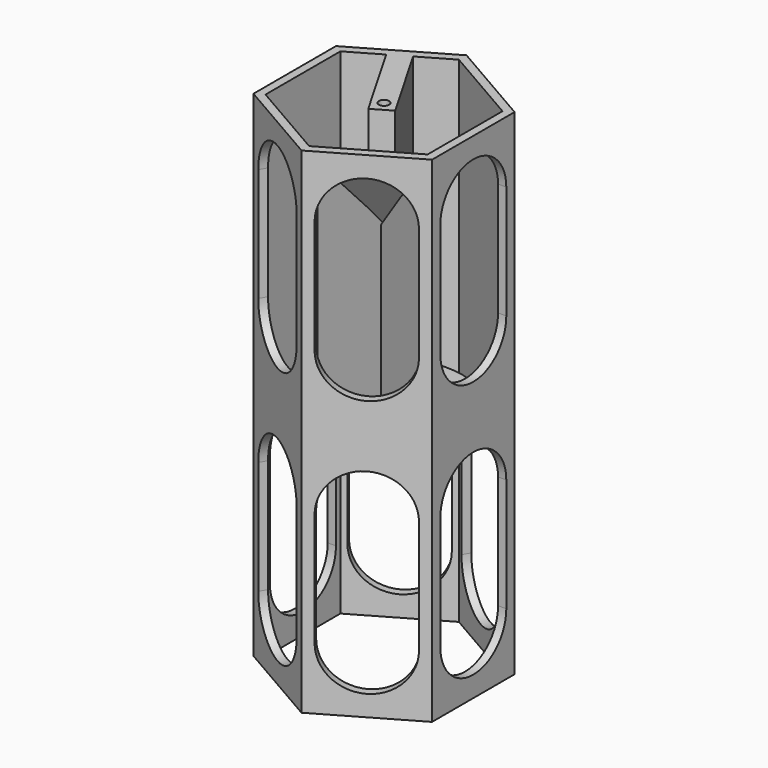
from build123d import *

# Parameters (mm, degrees)
F1_DEPTH  = 304.8
F7_DEPTH  = 3.175
F8_W      = 13.1115056574
F8_H      = 52.3799322128
F9_DEPTH  = 57.15
F10_R     = 3.175
F11_DEPTH = 304.801
F13_START = -25.4
F12_R     = 2.2405859804
F13_DEPTH = 140.85123
F15_DEPTH = 5.08
F17_DEPTH = 5.08
F19_DEPTH = 5.08
F21_DEPTH = 3.175
F23_DEPTH = 6.35
F25_DEPTH = 6.35
F27_DEPTH = 5.08
F29_DEPTH = 5.08
F31_DEPTH = 5.08


with BuildPart() as f1:
    # F0 (on Top) → F1 (new body)
    with BuildSketch(Plane.XY):
        Polygon((-54.9926131403, 31.75), (-54.9926131403, 0), (-54.9926131403, -31.75), (0, -63.5), (54.9926131403, -31.75), (54.9926131403, 0), (54.9926131403, 31.75), (0, 63.5), align=None)
        Polygon((-49.9126131403, -28.8170606325), (-49.9126131403, 0), (-49.9126131403, 28.8170606325), (0, 57.634121265), (49.9126131403, 28.8170606325), (49.9126131403, 0), (49.9126131403, -28.8170606325), (0, -57.634121265), align=None, mode=Mode.SUBTRACT)
    extrude(amount=F1_DEPTH)

    # F8 (on face) → F9 (join)
    with BuildSketch(Plane(origin=(-24.9563065702, 43.2255909488, 0), x_dir=(0.8660254038, 0.5, 0), z_dir=(0.5, -0.8660254038, 0))):
        with Locations((0, 278.6100338936)):
            Rectangle(F8_W, F8_H)
    extrude(amount=F9_DEPTH)

    # F10 (on face) → F11 (cut, through all)
    with BuildSketch(Plane.XY.offset(304.8)):
        Circle(F10_R)
    extrude(amount=-F11_DEPTH, mode=Mode.SUBTRACT)

    # F14 (on face) → F15 (cut, through all)
    with BuildSketch(Plane.YZ.offset(54.9926131403)):
        with BuildLine():
            ThreePointArc((25.4, 266.7), (0, 292.1), (-25.4, 266.7))
            Line((-25.4, 266.7), (-25.4, 196.85))
            ThreePointArc((-25.4, 196.85), (0, 171.45), (25.4, 196.85))
            Line((25.4, 196.85), (25.4, 266.7))
        make_face()
        with BuildLine():
            ThreePointArc((25.4, 107.95), (0, 133.35), (-25.4, 107.95))
            Line((-25.4, 107.95), (-25.4, 38.1))
            ThreePointArc((-25.4, 38.1), (0, 12.7), (25.4, 38.1))
            Line((25.4, 38.1), (25.4, 107.95))
        make_face()
    extrude(amount=-F15_DEPTH, mode=Mode.SUBTRACT)

    # F16 (on face) → F17 (cut, through all)
    with BuildSketch(Plane(origin=(27.4963065702, -47.625, 0), x_dir=(0.8660254038, 0.5, 0), z_dir=(0.5, -0.8660254038, 0))):
        with BuildLine():
            ThreePointArc((25.4, 266.7), (0, 292.1), (-25.4, 266.7))
            Line((-25.4, 266.7), (-25.4, 196.85))
            ThreePointArc((-25.4, 196.85), (0, 171.45), (25.4, 196.85))
            Line((25.4, 196.85), (25.4, 266.7))
        make_face()
        with BuildLine():
            Line((25.4, 38.1), (25.4, 107.95))
            ThreePointArc((25.4, 107.95), (0, 133.35), (-25.4, 107.95))
            Line((-25.4, 107.95), (-25.4, 38.1))
            ThreePointArc((-25.4, 38.1), (0, 12.7), (25.4, 38.1))
        make_face()
    extrude(amount=-F17_DEPTH, mode=Mode.SUBTRACT)

    # F18 (on face) → F19 (cut, through all)
    with BuildSketch(Plane(origin=(-27.4963065702, -47.625, 0), x_dir=(0.8660254038, -0.5, 0), z_dir=(-0.5, -0.8660254038, 0))):
        with BuildLine():
            ThreePointArc((25.4, 266.7), (0, 292.1), (-25.4, 266.7))
            Line((-25.4, 266.7), (-25.4, 196.85))
            ThreePointArc((-25.4, 196.85), (0, 171.45), (25.4, 196.85))
            Line((25.4, 196.85), (25.4, 266.7))
        make_face()
        with BuildLine():
            ThreePointArc((25.4, 107.95), (0, 133.35), (-25.4, 107.95))
            Line((-25.4, 107.95), (-25.4, 38.1))
            ThreePointArc((-25.4, 38.1), (0, 12.7), (25.4, 38.1))
            Line((25.4, 38.1), (25.4, 107.95))
        make_face()
    extrude(amount=-F19_DEPTH, mode=Mode.SUBTRACT)

    # F26 (on face) → F27 (cut, through all)
    with BuildSketch(Plane(origin=(27.4963065702, 47.625, 0), x_dir=(-0.8660254038, 0.5, 0), z_dir=(0.5, 0.8660254038, 0))):
        with BuildLine():
            ThreePointArc((25.4, 107.95), (0, 133.35), (-25.4, 107.95))
            Line((-25.4, 107.95), (-25.4, 38.1))
            ThreePointArc((-25.4, 38.1), (0, 12.7), (25.4, 38.1))
            Line((25.4, 38.1), (25.4, 107.95))
        make_face()
    extrude(amount=-F27_DEPTH, mode=Mode.SUBTRACT)

    # F28 (on face) → F29 (cut, through all)
    with BuildSketch(Plane(origin=(-27.4963065702, 47.625, 0), x_dir=(-0.8660254038, -0.5, 0), z_dir=(-0.5, 0.8660254038, 0))):
        with BuildLine():
            Line((-25.4, 107.95), (-25.4, 38.1))
            ThreePointArc((-25.4, 38.1), (0, 12.7), (25.4, 38.1))
            Line((25.4, 38.1), (25.4, 107.95))
            ThreePointArc((25.4, 107.95), (0, 133.35), (-25.4, 107.95))
        make_face()
    extrude(amount=-F29_DEPTH, mode=Mode.SUBTRACT)

    # F30 (on face) → F31 (cut, through all)
    with BuildSketch(Plane(origin=(-54.9926131403, 0, 0), x_dir=(0, -1, 0), z_dir=(-1, 0, 0))):
        with BuildLine():
            Line((-25.4, 107.95), (-25.4, 38.1))
            ThreePointArc((-25.4, 38.1), (0, 12.7), (25.4, 38.1))
            Line((25.4, 38.1), (25.4, 107.95))
            ThreePointArc((25.4, 107.95), (0, 133.35), (-25.4, 107.95))
        make_face()
    extrude(amount=-F31_DEPTH, mode=Mode.SUBTRACT)


with BuildPart() as f7:
    # F6 (on 3pt) → F7 (new body)
    with BuildSketch(Plane(origin=(-54.2456154711, 93.9561620838, 74.6804273717), x_dir=(-0.9112486735, -0.3224153931, -0.25626972), z_dir=(-0.4118565953, 0.7133565484, 0.567006684))):
        with BuildLine():
            Line((-59.528882784, 181.8445044933), (-56.8881433905, 262.573325118))
            ThreePointArc((-56.8881433905, 262.573325118), (-84.6582822631, 258.6079675849), (-109.3974446881, 245.383803495))
            Line((-109.3974446881, 245.383803495), (-59.528882784, 181.8445044933))
        make_face()
    extrude(amount=F7_DEPTH)

    # F12 (on face) → F13 (join)
    with BuildSketch(Plane.XY.offset(304.8).offset(F13_START)):
        Circle(F12_R)
    extrude(amount=-F13_DEPTH)

    # F20 (on face) → F21 (join)
    with BuildSketch(Plane(origin=(0, 0, 138.54877), x_dir=(1, 0, 0), z_dir=(0, 0, -1))):
        with BuildLine():
            ThreePointArc((-8.3802610542, 47.5268221604), (-24.13, -41.7943859866), (45.3495658791, 16.5058921169))
            Line((45.3495658791, 16.5058921169), (0, 0))
            Line((0, 0), (-8.3802610542, 47.5268221604))
        make_face()
    extrude(amount=-F21_DEPTH)

    # F22 (on face) → F23 (join)
    with BuildSketch(Plane(origin=(0, 0, 0), x_dir=(0.1736481777, 0.984807753, 0), z_dir=(0.984807753, -0.1736481777, 0))):
        Polygon((-48.26, 295.8237826824), (-48.26, 138.54877), (-2.2405859804, 138.54877), (-1.8979018787, 238.9846593142), align=None)
    extrude(amount=F23_DEPTH)

    # F24 (on face) → F25 (join)
    with BuildSketch(Plane(origin=(0, 0, 0), x_dir=(0.9396926208, -0.3420201433, 0), z_dir=(-0.3420201433, -0.9396926208, 0))):
        Polygon((6.4400737174, 138.54877), (48.26, 138.54877), (48.26, 295.3179776669), (6.4400737174, 242.3680126667), align=None)
    extrude(amount=F25_DEPTH)


solid = Compound([f1.part, f7.part])
